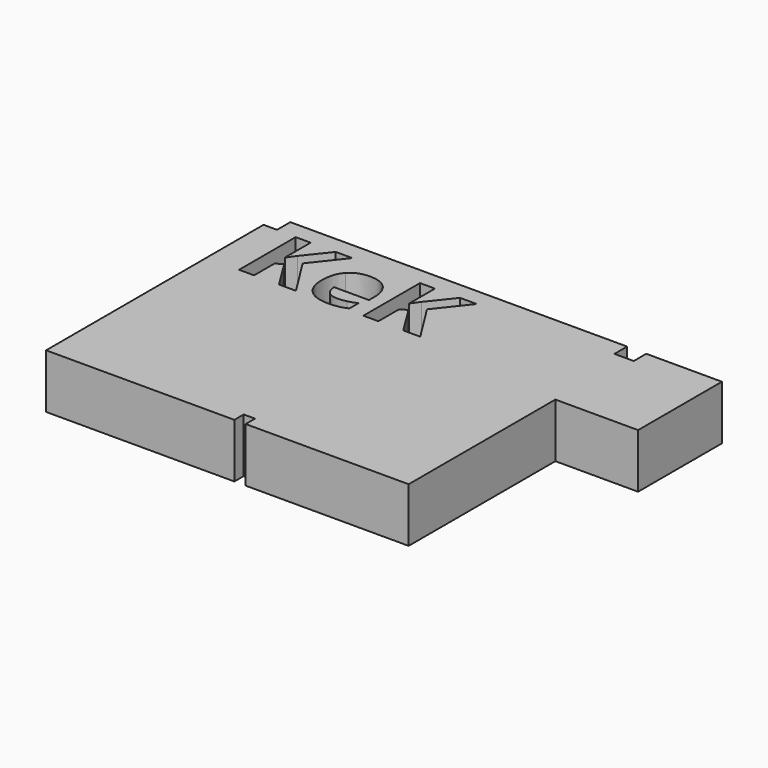
from build123d import *

# Parameters (mm, degrees)
F1_DEPTH = 7.62
F2_DEPTH = 25.4


with BuildPart() as f1:
    # F0 (on Top) → F1 (new body)
    with BuildSketch(Plane.XY):
        Polygon((-105.48081249, 68.0660605431), (-111.8125319481, 68.0660605431), (-111.8125319481, -59.1440834105), (-23.6834976822, -59.1440834105), (-23.6834976822, -53.6785013974), (-18.3922555298, -53.6785013974), (-18.3922555298, -59.1440834105), (57.8856468201, -59.1440834105), (57.8856468201, 26.6896747053), (96.6019257903, 26.6896747053), (96.6019257903, 75.7354423404), (61.1912831664, 75.7354423404), (61.1912831664, 68.4091001749), (52.1640814841, 68.4091001749), (52.1640814841, 75.83681494), (-105.48081249, 75.83681494), align=None)
        Polygon((-81.554395719, 53.1338888759), (-69.9187490924, 34.6805937588), (-77.8883700696, 34.6805937588), (-86.5607667147, 48.6274304688), (-89.5240166962, 46.4973681349), (-89.5240166962, 34.6805937588), (-96.544528266, 34.6805937588), (-96.544528266, 67.7835012539), (-89.5240166962, 67.7835012539), (-89.5240166962, 52.6339762873), (-86.7636297941, 56.5318454561), (-77.7941836398, 67.7835012539), (-70.0056904122, 67.7835012539), align=None, mode=Mode.SUBTRACT)
        with BuildLine():
            add(Edge.make_bspline(
                [(-49.8135689001, 34.6661035389), (-51.8711801342, 34.2241518301), (-54.8416752257, 34.2241518301)],
                knots=[0, 0, 0, 1, 1, 1], degree=2))
            add(Edge.make_bspline(
                [(-54.8416752257, 34.2241518301), (-60.9493029381, 34.2241518301), (-64.3907301783, 37.6003730804)],
                knots=[0, 0, 0, 1, 1, 1], degree=2))
            add(Edge.make_bspline(
                [(-64.3907301783, 37.6003730804), (-67.8321574184, 40.9765943308), (-67.8321574184, 47.156673143)],
                knots=[0, 0, 0, 1, 1, 1], degree=2))
            add(Edge.make_bspline(
                [(-67.8321574184, 47.156673143), (-67.8321574184, 53.5178797048), (-64.6515541375, 56.9919099398)],
                knots=[0, 0, 0, 1, 1, 1], degree=2))
            add(Edge.make_bspline(
                [(-64.6515541375, 56.9919099398), (-61.4709508566, 60.4659401749), (-55.8559906228, 60.4659401749)],
                knots=[0, 0, 0, 1, 1, 1], degree=2))
            add(Edge.make_bspline(
                [(-55.8559906228, 60.4659401749), (-50.4946092381, 60.4659401749), (-47.5060013717, 57.4121263186)],
                knots=[0, 0, 0, 1, 1, 1], degree=2))
            add(Edge.make_bspline(
                [(-47.5060013717, 57.4121263186), (-44.5173935053, 54.3583124624), (-44.5173935053, 48.9679506378)],
                knots=[0, 0, 0, 1, 1, 1], degree=2))
            Line((-44.5173935053, 48.9679506378), (-44.5173935053, 45.6134647175))
            Line((-44.5173935053, 45.6134647175), (-60.8406262885, 45.6134647175))
            add(Edge.make_bspline(
                [(-60.8406262885, 45.6134647175), (-60.7247045288, 42.6719500659), (-59.0945547835, 41.0200649906)],
                knots=[0, 0, 0, 1, 1, 1], degree=2))
            add(Edge.make_bspline(
                [(-59.0945547835, 41.0200649906), (-57.4644050381, 39.3681799154), (-54.5228903866, 39.3681799154)],
                knots=[0, 0, 0, 1, 1, 1], degree=2))
            add(Edge.make_bspline(
                [(-54.5228903866, 39.3681799154), (-52.2334356331, 39.3681799154), (-50.197559729, 39.842734619)],
                knots=[0, 0, 0, 1, 1, 1], degree=2))
            add(Edge.make_bspline(
                [(-50.197559729, 39.842734619), (-48.1616838248, 40.3172893227), (-45.9446801712, 41.3605851597)],
                knots=[0, 0, 0, 1, 1, 1], degree=2))
            Line((-45.9446801712, 41.3605851597), (-45.9446801712, 36.013693995))
            add(Edge.make_bspline(
                [(-45.9446801712, 36.013693995), (-47.755957666, 35.1080552476), (-49.8135689001, 34.6661035389)],
                knots=[0, 0, 0, 1, 1, 1], degree=2))
        make_face(mode=Mode.SUBTRACT)
        Polygon((-23.3689174759, 53.1338888759), (-11.7332708493, 34.6805937588), (-19.7028918265, 34.6805937588), (-28.3752884716, 48.6274304688), (-31.3385384531, 46.4973681349), (-31.3385384531, 34.6805937588), (-38.3590500229, 34.6805937588), (-38.3590500229, 67.7835012539), (-31.3385384531, 67.7835012539), (-31.3385384531, 52.6339762873), (-28.578151551, 56.5318454561), (-19.6087053967, 67.7835012539), (-11.8202121691, 67.7835012539), align=None, mode=Mode.SUBTRACT)
    extrude(amount=F1_DEPTH)

    # F0 (on Top) → F2 (join)
    with BuildSketch(Plane.XY):
        Polygon((-105.48081249, 68.0660605431), (-111.8125319481, 68.0660605431), (-111.8125319481, -59.1440834105), (-23.6834976822, -59.1440834105), (-23.6834976822, -53.6785013974), (-18.3922555298, -53.6785013974), (-18.3922555298, -59.1440834105), (57.8856468201, -59.1440834105), (57.8856468201, 26.6896747053), (96.6019257903, 26.6896747053), (96.6019257903, 75.7354423404), (61.1912831664, 75.7354423404), (61.1912831664, 68.4091001749), (52.1640814841, 68.4091001749), (52.1640814841, 75.83681494), (-105.48081249, 75.83681494), align=None)
        Polygon((-81.554395719, 53.1338888759), (-69.9187490924, 34.6805937588), (-77.8883700696, 34.6805937588), (-86.5607667147, 48.6274304688), (-89.5240166962, 46.4973681349), (-89.5240166962, 34.6805937588), (-96.544528266, 34.6805937588), (-96.544528266, 67.7835012539), (-89.5240166962, 67.7835012539), (-89.5240166962, 52.6339762873), (-86.7636297941, 56.5318454561), (-77.7941836398, 67.7835012539), (-70.0056904122, 67.7835012539), align=None, mode=Mode.SUBTRACT)
        with BuildLine():
            add(Edge.make_bspline(
                [(-49.8135689001, 34.6661035389), (-51.8711801342, 34.2241518301), (-54.8416752257, 34.2241518301)],
                knots=[0, 0, 0, 1, 1, 1], degree=2))
            add(Edge.make_bspline(
                [(-54.8416752257, 34.2241518301), (-60.9493029381, 34.2241518301), (-64.3907301783, 37.6003730804)],
                knots=[0, 0, 0, 1, 1, 1], degree=2))
            add(Edge.make_bspline(
                [(-64.3907301783, 37.6003730804), (-67.8321574184, 40.9765943308), (-67.8321574184, 47.156673143)],
                knots=[0, 0, 0, 1, 1, 1], degree=2))
            add(Edge.make_bspline(
                [(-67.8321574184, 47.156673143), (-67.8321574184, 53.5178797048), (-64.6515541375, 56.9919099398)],
                knots=[0, 0, 0, 1, 1, 1], degree=2))
            add(Edge.make_bspline(
                [(-64.6515541375, 56.9919099398), (-61.4709508566, 60.4659401749), (-55.8559906228, 60.4659401749)],
                knots=[0, 0, 0, 1, 1, 1], degree=2))
            add(Edge.make_bspline(
                [(-55.8559906228, 60.4659401749), (-50.4946092381, 60.4659401749), (-47.5060013717, 57.4121263186)],
                knots=[0, 0, 0, 1, 1, 1], degree=2))
            add(Edge.make_bspline(
                [(-47.5060013717, 57.4121263186), (-44.5173935053, 54.3583124624), (-44.5173935053, 48.9679506378)],
                knots=[0, 0, 0, 1, 1, 1], degree=2))
            Line((-44.5173935053, 48.9679506378), (-44.5173935053, 45.6134647175))
            Line((-44.5173935053, 45.6134647175), (-60.8406262885, 45.6134647175))
            add(Edge.make_bspline(
                [(-60.8406262885, 45.6134647175), (-60.7247045288, 42.6719500659), (-59.0945547835, 41.0200649906)],
                knots=[0, 0, 0, 1, 1, 1], degree=2))
            add(Edge.make_bspline(
                [(-59.0945547835, 41.0200649906), (-57.4644050381, 39.3681799154), (-54.5228903866, 39.3681799154)],
                knots=[0, 0, 0, 1, 1, 1], degree=2))
            add(Edge.make_bspline(
                [(-54.5228903866, 39.3681799154), (-52.2334356331, 39.3681799154), (-50.197559729, 39.842734619)],
                knots=[0, 0, 0, 1, 1, 1], degree=2))
            add(Edge.make_bspline(
                [(-50.197559729, 39.842734619), (-48.1616838248, 40.3172893227), (-45.9446801712, 41.3605851597)],
                knots=[0, 0, 0, 1, 1, 1], degree=2))
            Line((-45.9446801712, 41.3605851597), (-45.9446801712, 36.013693995))
            add(Edge.make_bspline(
                [(-45.9446801712, 36.013693995), (-47.755957666, 35.1080552476), (-49.8135689001, 34.6661035389)],
                knots=[0, 0, 0, 1, 1, 1], degree=2))
        make_face(mode=Mode.SUBTRACT)
        Polygon((-23.3689174759, 53.1338888759), (-11.7332708493, 34.6805937588), (-19.7028918265, 34.6805937588), (-28.3752884716, 48.6274304688), (-31.3385384531, 46.4973681349), (-31.3385384531, 34.6805937588), (-38.3590500229, 34.6805937588), (-38.3590500229, 67.7835012539), (-31.3385384531, 67.7835012539), (-31.3385384531, 52.6339762873), (-28.578151551, 56.5318454561), (-19.6087053967, 67.7835012539), (-11.8202121691, 67.7835012539), align=None, mode=Mode.SUBTRACT)
    extrude(amount=F2_DEPTH)


solid = f1.part
